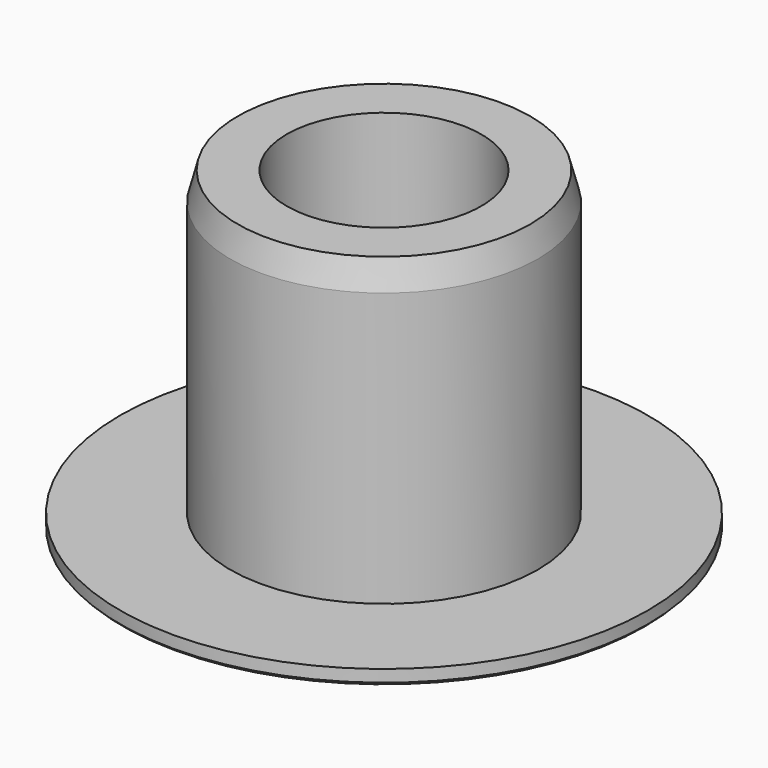
from build123d import *

# Parameters (mm, degrees)
F1_R     = 10.2
F2_DEPTH = 20
F3_R     = 17.5
F4_DEPTH = 1
F6_D     = 12.9
F7_SIZE2 = 0.2
F7_SIZE  = 0.2
F8_SIZE2 = 1.8660254038
F8_SIZE  = 0.5


with BuildPart() as f2:
    # F1 (on Top) → F2 (new body)
    with BuildSketch(Plane.XY):
        Circle(F1_R)
    extrude(amount=F2_DEPTH)

    # F3 (on face) → F4 (join)
    with BuildSketch(Plane(origin=(0, 0, 0), x_dir=(1, 0, 0), z_dir=(0, 0, -1))):
        Circle(F3_R)
    extrude(amount=F4_DEPTH)

    # F6 (through all)
    with Locations(Plane(origin=(0, 0, -1), x_dir=(1, 0, 0), z_dir=(0, 0, -1))):
        with Locations((0, 0)):
            Hole(F6_D / 2)

    # F7
    f7_edges = [f2.edges().sort_by_distance(p)[0] for p in [
        (-17.5, 0, -1),
    ]]
    chamfer(f7_edges, length=F7_SIZE, length2=F7_SIZE2)

    # F8
    f8_edges = [f2.edges().sort_by_distance(p)[0] for p in [
        (-10.2, 0, 20),
    ]]
    f8_side = f2.faces().sort_by_distance((-9.9115, 0, 20))[0]
    chamfer(f8_edges, length=F8_SIZE, length2=F8_SIZE2, reference=f8_side)


solid = f2.part
